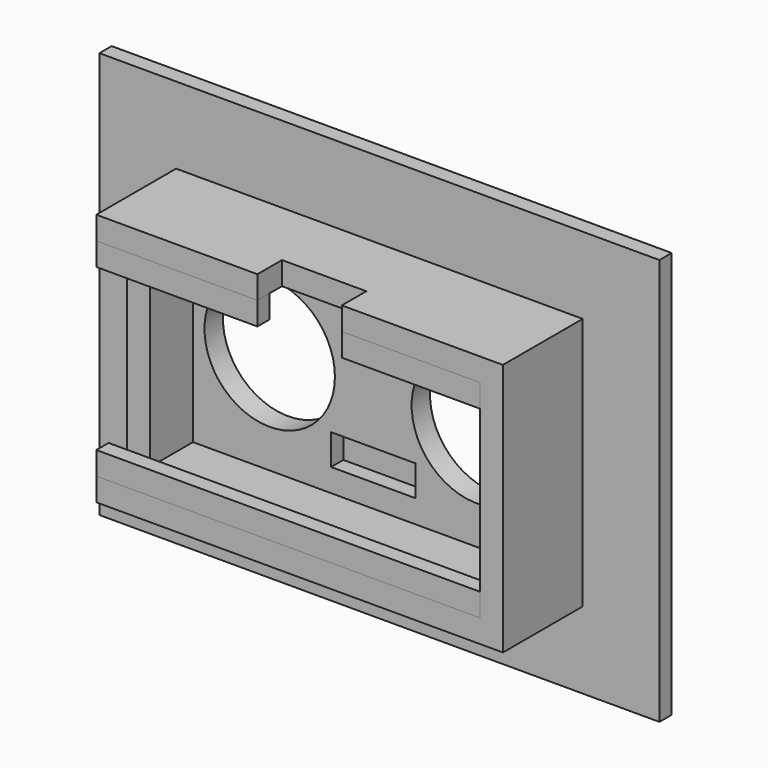
from build123d import *

# Parameters (mm, degrees)
F0_R     = 8.5
F0_W     = 18
F0_H     = 3
F0_W_2   = 11
F1_DEPTH = 3
F0_H_2   = 4
F2_DEPTH = 1
F3_DEPTH = 15
F4_DEPTH = 11
F5_DEPTH = 2
F0_W_3   = 3
F0_H_3   = 21
F6_DEPTH = 10
F7_START = 13
F7_DEPTH = 2


with BuildPart() as f1:
    # F0 (on Front) → F1 (new body)
    with BuildSketch(Plane.XZ):
        Polygon((-5.5, 10.5), (-23.5, 10.5), (-23.5, -10.5), (-5.5, -10.5), (-5.5, -6.5), (5.5, -6.5), (5.5, -10.5), (23.5, -10.5), (23.5, 10.5), (5.5, 10.5), align=None)
        with Locations((-13.5, 0)):
            Circle(F0_R, mode=Mode.SUBTRACT)
        with Locations((13.5, 0)):
            Circle(F0_R, mode=Mode.SUBTRACT)
        Polygon((-5.5, -10.5), (-23.5, -10.5), (-23.5, -13.5), (-5.5, -13.5), (5.5, -13.5), (23.5, -13.5), (23.5, -10.5), (5.5, -10.5), align=None)
        Polygon((-5.5, 10.5), (-23.5, 10.5), (-23.5, -10.5), (-5.5, -10.5), (-5.5, -6.5), (5.5, -6.5), (5.5, -10.5), (23.5, -10.5), (23.5, 10.5), (5.5, 10.5), align=None)
        with Locations((-13.5, 0)):
            Circle(F0_R, mode=Mode.SUBTRACT)
        with Locations((13.5, 0)):
            Circle(F0_R, mode=Mode.SUBTRACT)
        Polygon((-5.5, 10.5), (-23.5, 10.5), (-23.5, -10.5), (-5.5, -10.5), (-5.5, -6.5), (5.5, -6.5), (5.5, -10.5), (23.5, -10.5), (23.5, 10.5), (5.5, 10.5), align=None)
        with Locations((-13.5, 0)):
            Circle(F0_R, mode=Mode.SUBTRACT)
        with Locations((13.5, 0)):
            Circle(F0_R, mode=Mode.SUBTRACT)
        with Locations((-14.5, 12)):
            Rectangle(F0_W, F0_H)
        with Locations((0, 12)):
            Rectangle(F0_W_2, F0_H)
        with Locations((14.5, 12)):
            Rectangle(F0_W, F0_H)
        Polygon((-5.5, -10.5), (-23.5, -10.5), (-23.5, -13.5), (-5.5, -13.5), (5.5, -13.5), (23.5, -13.5), (23.5, -10.5), (5.5, -10.5), align=None)
    extrude(amount=F1_DEPTH)

    # F0 (on Front) → F2 (join)
    with BuildSketch(Plane.XZ):
        with Locations((0, -8.5)):
            Rectangle(F0_W_2, F0_H_2)
        with Locations((0, -8.5)):
            Rectangle(F0_W_2, F0_H_2)
    extrude(amount=F2_DEPTH)

    # F0 (on Front) → F3 (join)
    with BuildSketch(Plane.XZ):
        Polygon((-26.5, 13.5), (-23.5, 13.5), (-5.5, 13.5), (-5.5, 16.5), (-26.5, 16.5), align=None)
        Polygon((5.5, 16.5), (5.5, 13.5), (23.5, 13.5), (26.5, 13.5), (26.5, 16.5), align=None)
        Polygon((26.5, 13.5), (23.5, 13.5), (23.5, 10.5), (23.5, -10.5), (23.5, -13.5), (26.5, -13.5), align=None)
        Polygon((26.5, -16.5), (26.5, -13.5), (23.5, -13.5), (5.5, -13.5), (5.5, -16.5), align=None)
        with Locations((0, -15)):
            Rectangle(F0_W_2, F0_H)
        Polygon((-5.5, -13.5), (-23.5, -13.5), (-26.5, -13.5), (-26.5, -16.5), (-5.5, -16.5), align=None)
        with Locations((0, -15)):
            Rectangle(F0_W_2, F0_H)
    extrude(amount=F3_DEPTH)

    # F0 (on Front) → F4 (join)
    with BuildSketch(Plane.XZ):
        with Locations((0, 15)):
            Rectangle(F0_W_2, F0_H)
        with Locations((0, 15)):
            Rectangle(F0_W_2, F0_H)
    extrude(amount=F4_DEPTH)

    # F0 (on Front) → F5 (join)
    with BuildSketch(Plane.XZ):
        Polygon((-26.5, 16.5), (-5.5, 16.5), (5.5, 16.5), (26.5, 16.5), (36.5, 16.5), (36.5, 26.5), (-36.5, 26.5), (-36.5, 16.5), align=None)
        Polygon((-26.5, 10.5), (-26.5, 13.5), (-26.5, 16.5), (-36.5, 16.5), (-36.5, -16.5), (-26.5, -16.5), (-26.5, -13.5), (-26.5, -10.5), align=None)
        Polygon((-26.5, -16.5), (-36.5, -16.5), (-36.5, -26.5), (36.5, -26.5), (36.5, -16.5), (26.5, -16.5), (5.5, -16.5), (-5.5, -16.5), align=None)
        Polygon((26.5, 16.5), (26.5, 13.5), (26.5, -13.5), (26.5, -16.5), (36.5, -16.5), (36.5, 16.5), align=None)
    extrude(amount=F5_DEPTH)

    # F0 (on Front) → F6 (join)
    with BuildSketch(Plane.XZ):
        with Locations((-25, 12)):
            Rectangle(F0_W_3, F0_H)
        with Locations((-25, 0)):
            Rectangle(F0_W_3, F0_H_3)
        with Locations((-25, -12)):
            Rectangle(F0_W_3, F0_H)
    extrude(amount=F6_DEPTH)


with BuildPart() as f7:
    # F0 (on Front) → F7 (new body)
    with BuildSketch(Plane.XZ.offset(F7_START)):
        with Locations((-25, 12)):
            Rectangle(F0_W_3, F0_H)
        with Locations((-14.5, 12)):
            Rectangle(F0_W, F0_H)
    extrude(amount=F7_DEPTH)


with BuildPart() as f7b:
    # F0 (on Front) → F7, piece 2 (new body)
    with BuildSketch(Plane.XZ.offset(F7_START)):
        with Locations((-25, -12)):
            Rectangle(F0_W_3, F0_H)
        Polygon((-5.5, -10.5), (-23.5, -10.5), (-23.5, -13.5), (-5.5, -13.5), (5.5, -13.5), (23.5, -13.5), (23.5, -10.5), (5.5, -10.5), align=None)
        Polygon((-5.5, -10.5), (-23.5, -10.5), (-23.5, -13.5), (-5.5, -13.5), (5.5, -13.5), (23.5, -13.5), (23.5, -10.5), (5.5, -10.5), align=None)
        Polygon((-5.5, -10.5), (-23.5, -10.5), (-23.5, -13.5), (-5.5, -13.5), (5.5, -13.5), (23.5, -13.5), (23.5, -10.5), (5.5, -10.5), align=None)
    extrude(amount=F7_DEPTH)


with BuildPart() as f7c:
    # F0 (on Front) → F7, piece 3 (new body)
    with BuildSketch(Plane.XZ.offset(F7_START)):
        with Locations((14.5, 12)):
            Rectangle(F0_W, F0_H)
    extrude(amount=F7_DEPTH)


solid = Compound([f1.part, f7.part, f7b.part, f7c.part])
